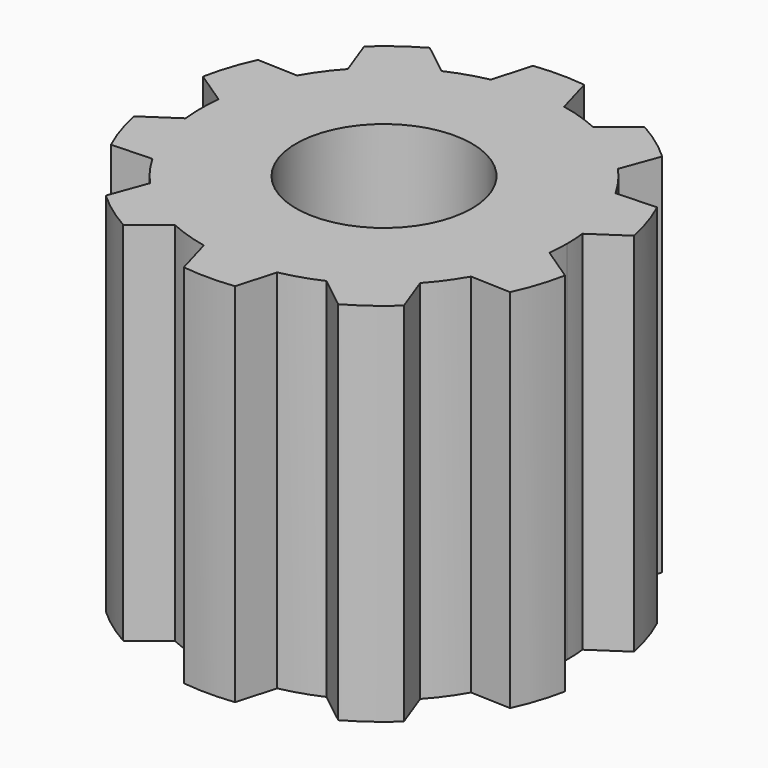
from build123d import *

# Parameters (mm, degrees)
F0_R     = 3.048
F1_DEPTH = 12.7


with BuildPart() as f1:
    # F0 (on Top) → F1 (new body)
    with BuildSketch(Plane.XY):
        with BuildLine():
            Line((6.309644, 0.71477), (7.472278, 1.49314))
            ThreePointArc((7.472278, 1.49314), (7.247051, 2.354709), (6.922845, 3.184119))
            Line((6.922845, 3.184119), (5.52474, 3.130454))
            ThreePointArc((5.52474, 3.130454), (6.039209, 1.962258), (6.309644, 0.71477))
        make_face()
        with BuildLine():
            Line((4.684477, 4.286977), (5.167554, 5.60007))
            ThreePointArc((5.167554, 5.60007), (4.478924, 6.164709), (3.729122, 6.645153))
            Line((3.729122, 6.645153), (2.629574, 5.779951))
            ThreePointArc((2.629574, 5.779951), (3.732436, 5.137258), (4.684477, 4.286977))
        make_face()
        with BuildLine():
            Line((1.27, 6.221704), (0.889, 7.567964))
            ThreePointArc((0.889, 7.567964), (0, 7.62), (-0.889, 7.567964))
            Line((-0.889, 7.567964), (-1.27, 6.221704))
            ThreePointArc((-1.27, 6.221704), (0, 6.35), (1.27, 6.221704))
        make_face()
        with BuildLine():
            Line((-2.629574, 5.779951), (-3.729122, 6.645153))
            ThreePointArc((-3.729122, 6.645153), (-4.478924, 6.164709), (-5.167554, 5.60007))
            Line((-5.167554, 5.60007), (-4.684477, 4.286977))
            ThreePointArc((-4.684477, 4.286977), (-3.732436, 5.137258), (-2.629574, 5.779951))
        make_face()
        with BuildLine():
            Line((-5.52474, 3.130454), (-6.922845, 3.184119))
            ThreePointArc((-6.922845, 3.184119), (-7.247051, 2.354709), (-7.472278, 1.49314))
            Line((-7.472278, 1.49314), (-6.309644, 0.71477))
            ThreePointArc((-6.309644, 0.71477), (-6.039209, 1.962258), (-5.52474, 3.130454))
        make_face()
        with BuildLine():
            ThreePointArc((-7.472278, -1.49314), (-7.247051, -2.354709), (-6.922845, -3.184119))
            Line((-6.922845, -3.184119), (-5.52474, -3.130454))
            ThreePointArc((-5.52474, -3.130454), (-6.039209, -1.962258), (-6.309644, -0.71477))
            Line((-6.309644, -0.71477), (-7.472278, -1.49314))
        make_face()
        with BuildLine():
            ThreePointArc((-5.167554, -5.60007), (-4.478924, -6.164709), (-3.729122, -6.645153))
            Line((-3.729122, -6.645153), (-2.629574, -5.779951))
            ThreePointArc((-2.629574, -5.779951), (-3.732436, -5.137258), (-4.684477, -4.286977))
            Line((-4.684477, -4.286977), (-5.167554, -5.60007))
        make_face()
        with BuildLine():
            ThreePointArc((-0.889, -7.567964), (0, -7.62), (0.889, -7.567964))
            Line((0.889, -7.567964), (1.27, -6.221704))
            ThreePointArc((1.27, -6.221704), (0, -6.35), (-1.27, -6.221704))
            Line((-1.27, -6.221704), (-0.889, -7.567964))
        make_face()
        with BuildLine():
            ThreePointArc((3.729122, -6.645153), (4.478924, -6.164709), (5.167554, -5.60007))
            Line((5.167554, -5.60007), (4.684477, -4.286977))
            ThreePointArc((4.684477, -4.286977), (3.732436, -5.137258), (2.629574, -5.779951))
            Line((2.629574, -5.779951), (3.729122, -6.645153))
        make_face()
        with BuildLine():
            ThreePointArc((6.922845, -3.184119), (7.247051, -2.354709), (7.472278, -1.49314))
            Line((7.472278, -1.49314), (6.309644, -0.71477))
            ThreePointArc((6.309644, -0.71477), (6.039209, -1.962258), (5.52474, -3.130454))
            Line((5.52474, -3.130454), (6.922845, -3.184119))
        make_face()
        with BuildLine():
            ThreePointArc((6.35, 0), (6.339903, 0.357954), (6.309644, 0.71477))
            ThreePointArc((6.309644, 0.71477), (6.039209, 1.962258), (5.52474, 3.130454))
            ThreePointArc((5.52474, 3.130454), (5.137258, 3.732436), (4.684477, 4.286977))
            ThreePointArc((4.684477, 4.286977), (3.732436, 5.137258), (2.629574, 5.779951))
            ThreePointArc((2.629574, 5.779951), (1.962258, 6.039209), (1.27, 6.221704))
            ThreePointArc((1.27, 6.221704), (0, 6.35), (-1.27, 6.221704))
            ThreePointArc((-1.27, 6.221704), (-1.962258, 6.039209), (-2.629574, 5.779951))
            ThreePointArc((-2.629574, 5.779951), (-3.732436, 5.137258), (-4.684477, 4.286977))
            ThreePointArc((-4.684477, 4.286977), (-5.137258, 3.732436), (-5.52474, 3.130454))
            ThreePointArc((-5.52474, 3.130454), (-6.039209, 1.962258), (-6.309644, 0.71477))
            ThreePointArc((-6.309644, 0.71477), (-6.35, 0), (-6.309644, -0.71477))
            ThreePointArc((-6.309644, -0.71477), (-6.039209, -1.962258), (-5.52474, -3.130454))
            ThreePointArc((-5.52474, -3.130454), (-5.137258, -3.732436), (-4.684477, -4.286977))
            ThreePointArc((-4.684477, -4.286977), (-3.732436, -5.137258), (-2.629574, -5.779951))
            ThreePointArc((-2.629574, -5.779951), (-1.962258, -6.039209), (-1.27, -6.221704))
            ThreePointArc((-1.27, -6.221704), (0, -6.35), (1.27, -6.221704))
            ThreePointArc((1.27, -6.221704), (1.962258, -6.039209), (2.629574, -5.779951))
            ThreePointArc((2.629574, -5.779951), (3.732436, -5.137258), (4.684477, -4.286977))
            ThreePointArc((4.684477, -4.286977), (5.137258, -3.732436), (5.52474, -3.130454))
            ThreePointArc((5.52474, -3.130454), (6.039209, -1.962258), (6.309644, -0.71477))
            ThreePointArc((6.309644, -0.71477), (6.339903, -0.357954), (6.35, 0))
        make_face()
        Circle(F0_R, mode=Mode.SUBTRACT)
    extrude(amount=F1_DEPTH)


solid = f1.part
